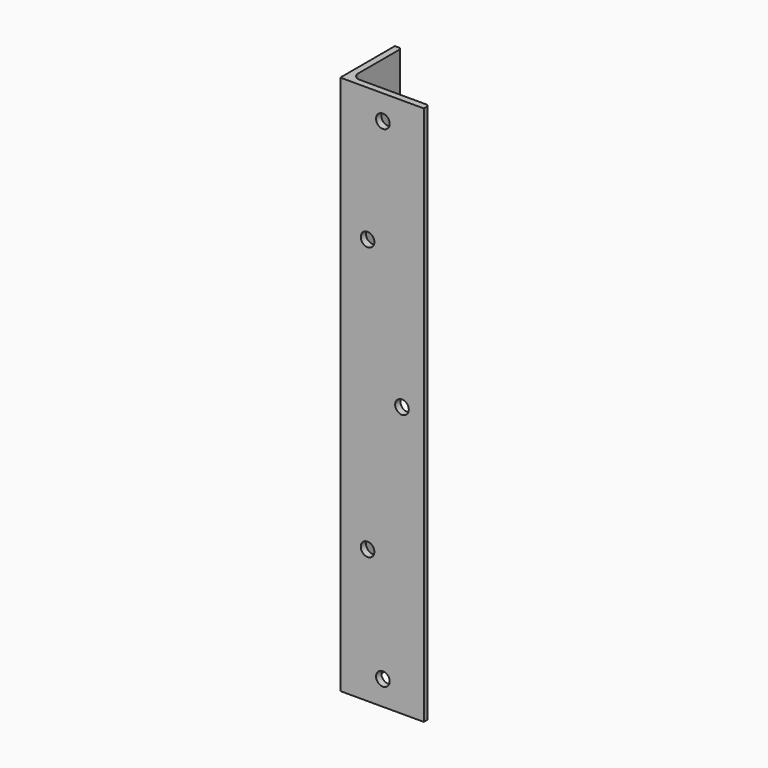
from build123d import *

# Parameters (mm, degrees)
F1_DEPTH = 990
F2_R     = 14
F3_R     = 4.6
F5_D     = 25
F7_D     = 25
F9_D     = 25


with BuildPart() as f1:
    # F0 (on Top) → F1 (new body)
    with BuildSketch(Plane.XY):
        Polygon((0, 125), (0, 0), (153.050105, 0), (153.050105, 12), (12, 12), (12, 125), align=None)
    extrude(amount=F1_DEPTH)

    # F2
    f2_edges = [f1.edges().sort_by_distance(p)[0] for p in [
        (12, 12, 495),
    ]]
    fillet(f2_edges, radius=F2_R)

    # F3
    f3_edges = [f1.edges().sort_by_distance(p)[0] for p in [
        (12, 125, 495),
        (153.050105, 12, 495),
    ]]
    fillet(f3_edges, radius=F3_R)

    # F5 (through all)
    with Locations(Plane(origin=(0, 12, 0), x_dir=(-1, 0, 0), z_dir=(0, 1, 0))):
        with Locations((-113.050105, 495)):
            Hole(F5_D / 2)

    # F7 (through all)
    with Locations(Plane(origin=(0, 12, 0), x_dir=(-1, 0, 0), z_dir=(0, 1, 0))):
        with Locations((-78.050105, 945), (-50, 745), (-50, 245), (-78.050105, 45)):
            Hole(F7_D / 2)

    # F9 (through all)
    with Locations(Plane.YZ.offset(12)):
        with Locations((50, 945), (50, 745), (85, 495), (50, 245), (50, 45)):
            Hole(F9_D / 2)


solid = f1.part
